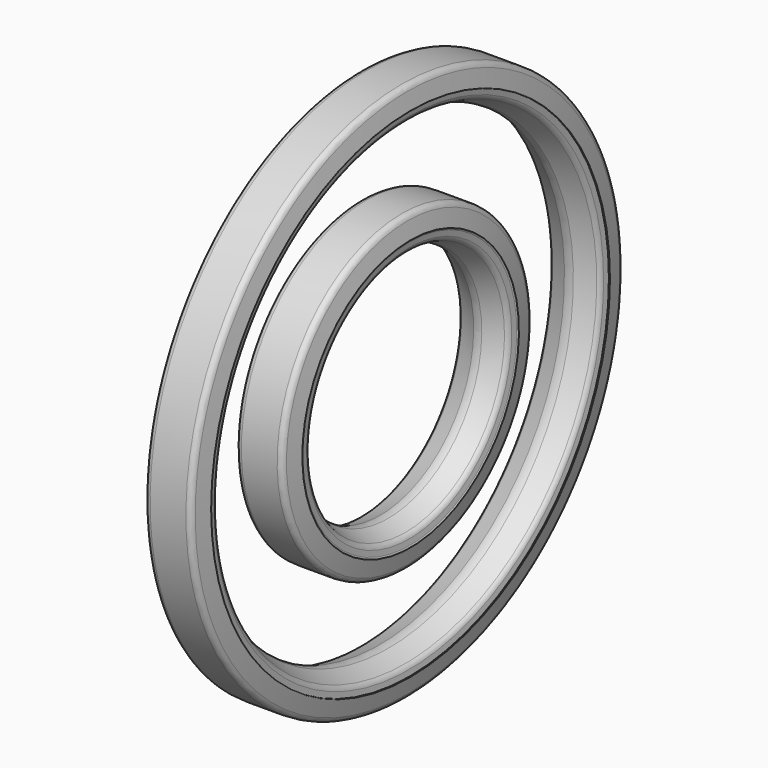
from build123d import *

# Parameters (mm, degrees)
F4_R   = 5.08
F4_2_R = 5.08
F5_R   = 2.54
F5_2_R = 2.54


with BuildPart() as f2:
    # F0 (on Front) → F2 (revolve)
    with BuildSketch(Plane.XZ):
        Polygon((10.85726, 107.463599), (11.387994, 111.403599), (11.847397, 111.402447), (10.088809, 120.65817), (-0.011191, 120.65817), (-10.111191, 120.65817), (-12.011192, 110.65817), (-11.541927, 110.65817), (-11.0112, 106.718172), (-0.011191, 102.53817), (0, 102.543242), align=None)
    revolve(axis=Axis((-6.303527, 0, 0), (-1, 0, 0)))

    # F4#2
    f4_2_edges = [f2.edges().sort_by_distance(p)[0] for p in [
        (-0.011191, 0, -102.53817),
    ]]
    fillet(f4_2_edges, radius=F4_2_R)

    # F5
    f5_edges = [f2.edges().sort_by_distance(p)[0] for p in [
        (-10.111191, 0, -120.65817),
        (10.088809, 0, -120.65817),
        (-11.0112, 0, -106.718172),
        (10.85726, 0, -107.463599),
    ]]
    fillet(f5_edges, radius=F5_R)


with BuildPart() as f3:
    # F1 (on Front) → F3 (revolve)
    with BuildSketch(Plane.XZ):
        Polygon((-10.969055, 55.814404), (0, 51.646165), (0, 69.754402), (-10.069046, 69.754402), (-11.969047, 59.754402), (-11.499782, 59.754402), align=None)
        Polygon((0, 69.754402), (0, 51.646165), (0.030954, 51.634402), (11.030954, 55.814402), (11.561688, 59.754402), (11.889542, 60.498679), (10.130954, 69.754402), (0.030954, 69.754402), align=None)
    revolve(axis=Axis((5.736871, 0, 0), (1, 0, 0)))

    # F4
    f4_edges = [f3.edges().sort_by_distance(p)[0] for p in [
        (0.030954, 0, -51.634402),
    ]]
    fillet(f4_edges, radius=F4_R)

    # F5#2
    f5_2_edges = [f3.edges().sort_by_distance(p)[0] for p in [
        (-10.069046, 0, -69.754402),
        (10.130954, 0, -69.754402),
        (-10.969055, 0, -55.814404),
        (11.030954, 0, -55.814402),
    ]]
    fillet(f5_2_edges, radius=F5_2_R)


solid = Compound([f2.part, f3.part])
